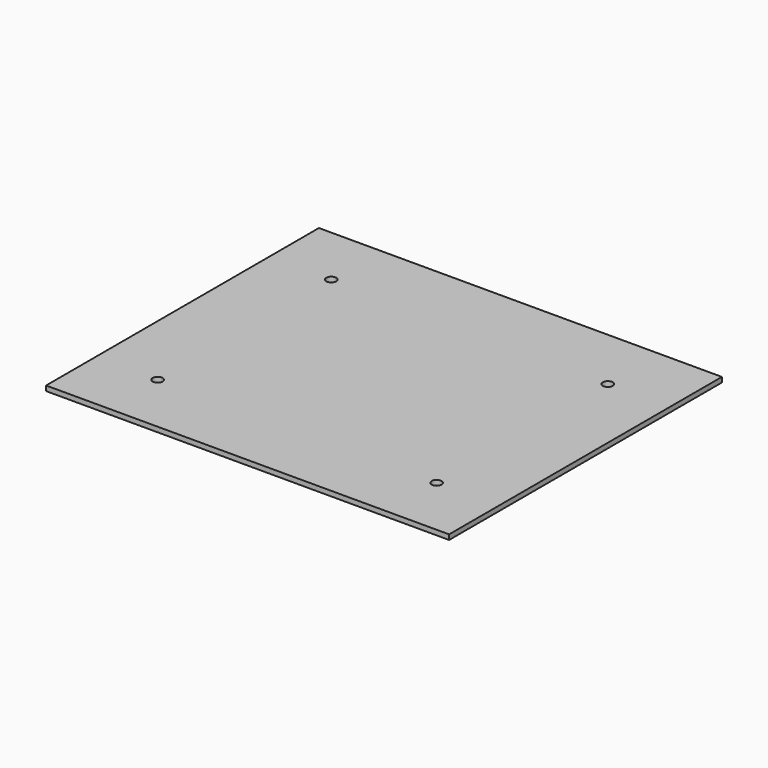
from build123d import *

# Parameters (mm, degrees)
SKETCH_W     = 130
SKETCH_H     = 110
PAD_DEPTH    = 1.6
SKETCH001_R  = 1.6
POCKET_DEPTH = 5


with BuildPart() as part:
    # Sketch → Pad (new body)
    with BuildSketch(Plane.XY):
        with Locations((65, 55)):
            Rectangle(SKETCH_W, SKETCH_H)
    extrude(amount=PAD_DEPTH)

    # Sketch001 → Pocket (cut)
    with BuildSketch(Plane.XY):
        with Locations((20, 20)):
            Circle(SKETCH001_R)
        with Locations((110, 89)):
            Circle(SKETCH001_R)
        with Locations((20, 90)):
            Circle(SKETCH001_R)
        with Locations((110, 20)):
            Circle(SKETCH001_R)
    extrude(amount=POCKET_DEPTH, mode=Mode.SUBTRACT)


solid = part.part
